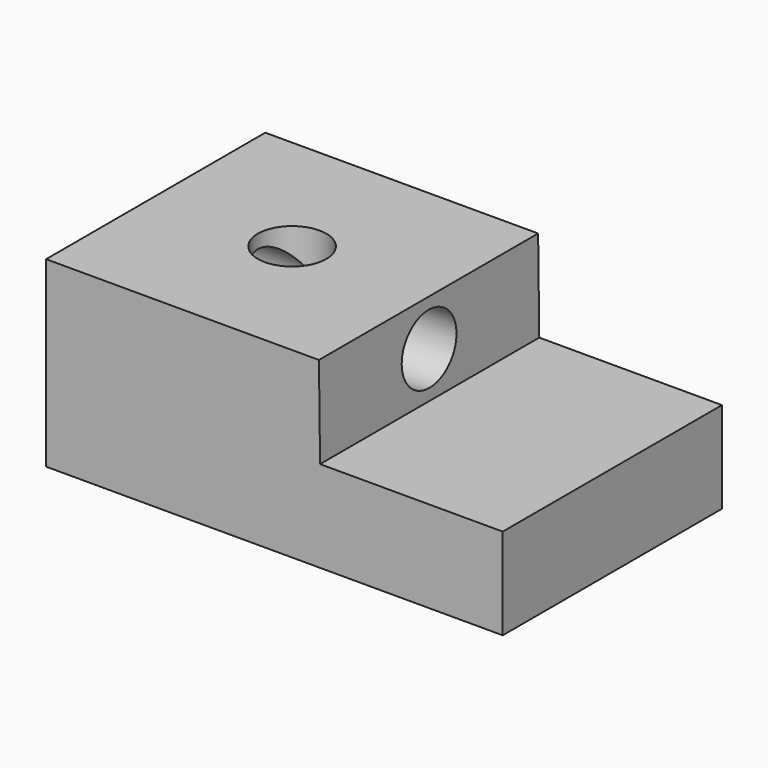
from build123d import *

# Parameters (mm, degrees)
F1_DEPTH = 76.2
F3_D     = 19.05
F5_D     = 19.05


with BuildPart() as f1:
    # F0 (on Front) → F1 (new body)
    with BuildSketch(Plane.XZ):
        Polygon((-31.7896687029, 19.3352506772), (-31.7896687029, -31.4647493228), (95.2103312971, -31.4647493228), (95.2103312971, -6.0647493228), (44.4103313356, -6.062771827), (44.0933883163, 19.3352506772), align=None)
    extrude(amount=F1_DEPTH)

    # F3 (through all)
    with Locations(Plane(origin=(44.3277707348, 0, 0.5531681646), x_dir=(0, 1, 0), z_dir=(0.9999221458, 0, 0.0124780716))):
        with Locations((-38.1, 6.0835448898)):
            Hole(F3_D / 2)

    # F5 (through all)
    with Locations(Plane.XY.offset(19.3352506772)):
        with Locations((6.1518598067, -38.1)):
            Hole(F5_D / 2)


solid = f1.part
